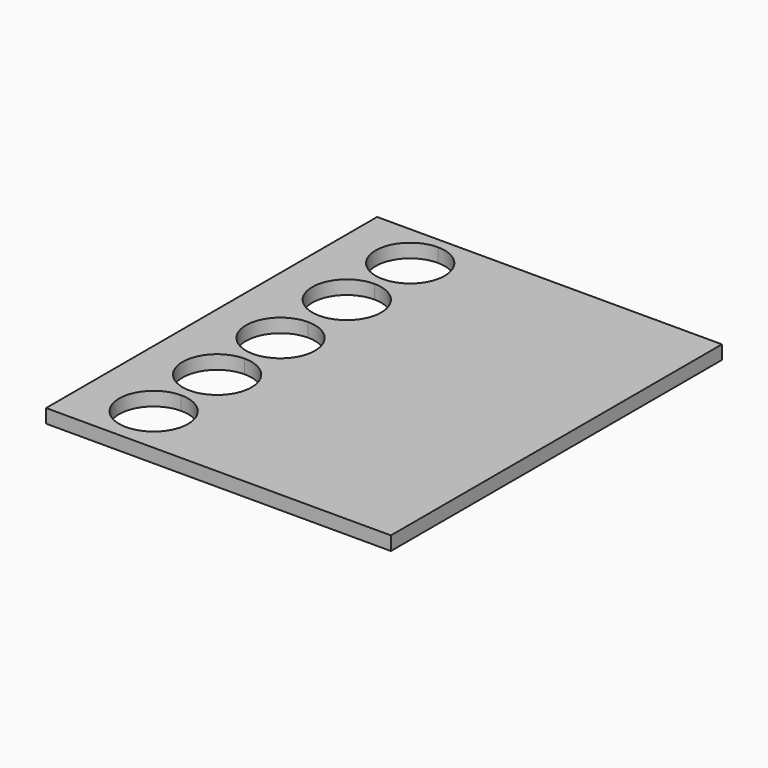
from build123d import *

# Parameters (mm, degrees)
F0_W     = 127
F0_H     = 152.4
F1_DEPTH = 5.08
F3_DEPTH = 7.62


with BuildPart() as f1:
    # F0 (on Top) → F1 (new body)
    with BuildSketch(Plane.XY):
        Rectangle(F0_W, F0_H)
    extrude(amount=F1_DEPTH)

    # F2 (on face) → F3 (cut)
    with BuildSketch(Plane.XY.offset(5.08)):
        with BuildLine():
            ThreePointArc((-38.1, -45.72), (-50.8, -58.42), (-38.1, -71.12))
            Line((-38.1, -71.12), (-38.1, -58.42))
            Line((-38.1, -58.42), (-38.1, -45.72))
        make_face()
        with BuildLine():
            Line((-38.1, -58.42), (-38.1, -71.12))
            ThreePointArc((-38.1, -71.12), (-29.119744, -67.400256), (-25.4, -58.42))
            ThreePointArc((-25.4, -58.42), (-29.119744, -49.439744), (-38.1, -45.72))
            Line((-38.1, -45.72), (-38.1, -58.42))
        make_face()
        with BuildLine():
            Line((-38.1, -29.21), (-38.1, -41.91))
            ThreePointArc((-38.1, -41.91), (-29.119744, -38.190256), (-25.4, -29.21))
            ThreePointArc((-25.4, -29.21), (-29.119744, -20.229744), (-38.1, -16.51))
            Line((-38.1, -16.51), (-38.1, -29.21))
        make_face()
        with BuildLine():
            ThreePointArc((-38.1, -16.51), (-50.8, -29.21), (-38.1, -41.91))
            Line((-38.1, -41.91), (-38.1, -29.21))
            Line((-38.1, -29.21), (-38.1, -16.51))
        make_face()
        with BuildLine():
            ThreePointArc((-38.1, 12.7), (-50.8, 0), (-38.1, -12.7))
            Line((-38.1, -12.7), (-38.1, 0))
            Line((-38.1, 0), (-38.1, 12.7))
        make_face()
        with BuildLine():
            Line((-38.1, 0), (-38.1, -12.7))
            ThreePointArc((-38.1, -12.7), (-29.119744, -8.980256), (-25.4, 0))
            ThreePointArc((-25.4, 0), (-29.119744, 8.980256), (-38.1, 12.7))
            Line((-38.1, 12.7), (-38.1, 0))
        make_face()
        with BuildLine():
            Line((-38.1, 30.48), (-38.1, 43.18))
            ThreePointArc((-38.1, 43.18), (-50.8, 30.48), (-38.1, 17.78))
            Line((-38.1, 17.78), (-38.1, 30.48))
        make_face()
        with BuildLine():
            ThreePointArc((-25.4, 30.48), (-29.119744, 39.460256), (-38.1, 43.18))
            Line((-38.1, 43.18), (-38.1, 30.48))
            Line((-38.1, 30.48), (-38.1, 17.78))
            ThreePointArc((-38.1, 17.78), (-29.119744, 21.499744), (-25.4, 30.48))
        make_face()
        with BuildLine():
            Line((-38.1, 59.69), (-38.1, 72.39))
            ThreePointArc((-38.1, 72.39), (-50.8, 59.69), (-38.1, 46.99))
            Line((-38.1, 46.99), (-38.1, 59.69))
        make_face()
        with BuildLine():
            ThreePointArc((-25.4, 59.69), (-29.119744, 68.670256), (-38.1, 72.39))
            Line((-38.1, 72.39), (-38.1, 59.69))
            Line((-38.1, 59.69), (-38.1, 46.99))
            ThreePointArc((-38.1, 46.99), (-29.119744, 50.709744), (-25.4, 59.69))
        make_face()
    extrude(amount=-F3_DEPTH, mode=Mode.SUBTRACT)


solid = f1.part
